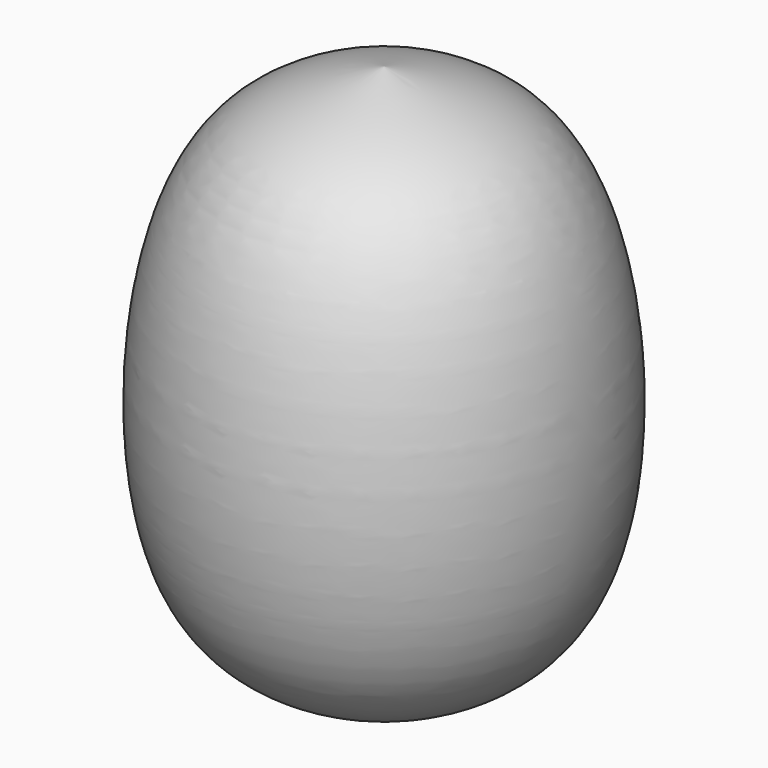
from build123d import *


with BuildPart() as f1:
    # F0 (on Front) → F1 (revolve)
    with BuildSketch(Plane.XZ):
        with BuildLine():
            add(Edge.make_bspline(
                [(0, 46.5082749724), (3.343158922, 45.6570136057), (10.1515387999, 43.9132214373), (14.6589240911, 33.3031292544), (14.9330515268, 18.863879179), (10.5612521848, 9.3556915988), (2.7589648962, 7.0944824256), (0, 7.4886204675)],
                knots=[0, 0, 0, 0, 0.190631317, 0.38858378, 0.6194681497, 0.8107693345, 1, 1, 1, 1], degree=3))
            Line((0, 46.5082749724), (0, 7.4886204675))
        make_face()
    revolve(axis=Axis((0, 0, 37.0489656925), (0, 0, -1)))


solid = f1.part
